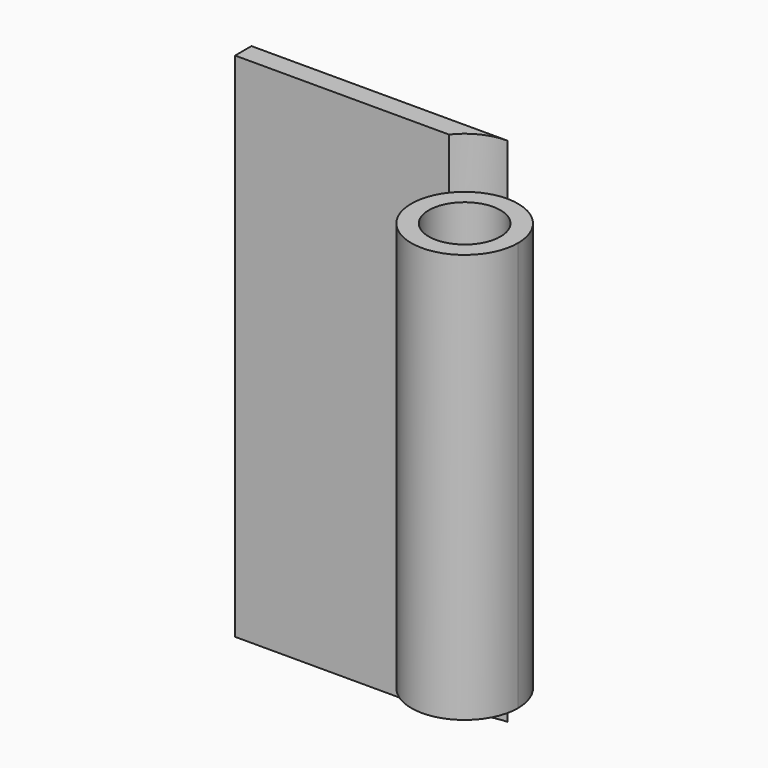
from build123d import *

# Parameters (mm, degrees)
F0_R     = 4.445
F1_DEPTH = 25.4
F2_DEPTH = 31.75


with BuildPart() as f1:
    # F0 (on Top) → F1 (new body, symmetric)
    with BuildSketch(Plane.XY):
        with BuildLine():
            ThreePointArc((-5.214068, 4.081675), (-2.158786, -6.25989), (6.621675, 0))
            ThreePointArc((6.621675, 0), (4.682231, 4.682231), (0, 6.621675))
            ThreePointArc((0, 6.621675), (-2.899918, 5.952902), (-5.214068, 4.081675))
        make_face()
        Circle(F0_R, mode=Mode.SUBTRACT)
    extrude(amount=F1_DEPTH, both=True)

    # F0 (on Top) → F2 (join, symmetric)
    with BuildSketch(Plane.XY):
        with BuildLine():
            ThreePointArc((-5.214068, 4.081675), (-2.899918, 5.952902), (0, 6.621675))
            Line((0, 6.621675), (-31.75, 6.621675))
            Line((-31.75, 6.621675), (-31.75, 4.081675))
            Line((-31.75, 4.081675), (-5.214068, 4.081675))
        make_face()
    extrude(amount=F2_DEPTH, both=True)


solid = f1.part
